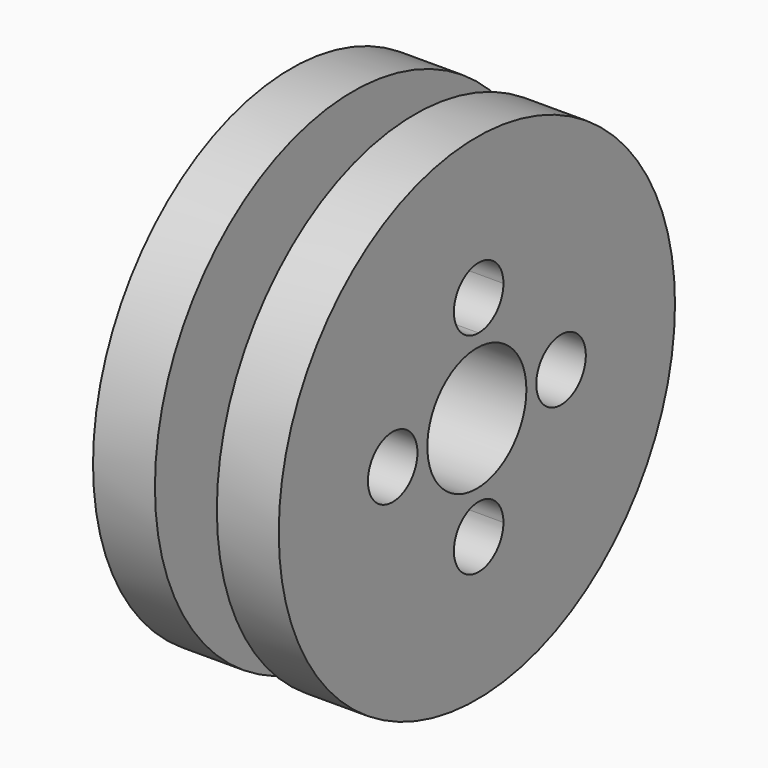
from build123d import *

# Parameters (mm, degrees)
F2_R     = 12.7
F3_DEPTH = 76.2


with BuildPart() as f1:
    # F0 (on Top) → F1 (revolve)
    with BuildSketch(Plane.XY):
        Polygon((0, 38.927556), (-25.4, 38.927556), (-25.4, -37.272444), (50.8, -37.272444), (50.8, 38.927556), (25.4, 38.927556), (25.4, 0), (0, 0), align=None)
    revolve(axis=Axis((12.7, -62.672444, 0), (1, 0, 0)))

    # F2 (on face) → F3 (cut, through all)
    with BuildSketch(Plane.YZ.offset(50.8)):
        with BuildLine():
            ThreePointArc((-32.192444, 0), (-19.492444, -12.7), (-6.792444, 0))
            ThreePointArc((-6.792444, 0), (-19.492444, 12.7), (-32.192444, 0))
        make_face()
        with BuildLine():
            ThreePointArc((-61.752998, -30.463353), (-70.733254, -52.143609), (-49.052998, -43.163353))
            ThreePointArc((-49.052998, -43.163353), (-52.772742, -34.183097), (-61.752998, -30.463353))
        make_face()
        with Locations((-105.852444, 0)):
            Circle(F2_R)
        with BuildLine():
            ThreePointArc((-61.752998, 30.463353), (-52.772742, 34.183097), (-49.052998, 43.163353))
            ThreePointArc((-49.052998, 43.163353), (-70.733254, 52.143609), (-61.752998, 30.463353))
        make_face()
    extrude(amount=-F3_DEPTH, mode=Mode.SUBTRACT)


solid = f1.part
